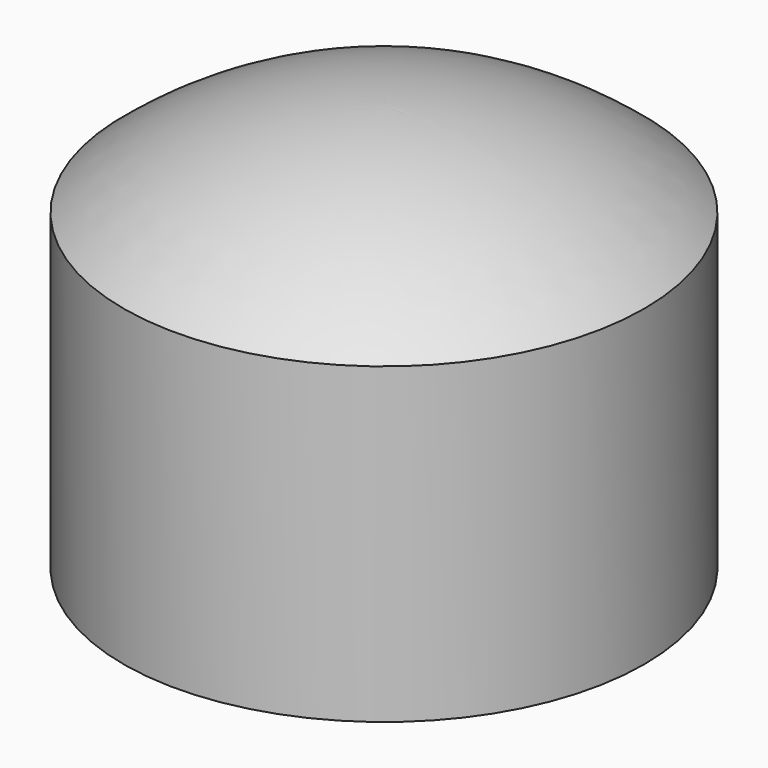
from build123d import *

# Parameters (mm, degrees)
F0_W = 4.699
F0_H = 41.91
F2_R = 2.54


with BuildPart() as f1:
    # F0 (on Front) → F1 (revolve)
    with BuildSketch(Plane.XZ):
        with BuildLine():
            ThreePointArc((0, 51.713774), (15.857888, 49.201307), (30.1625, 41.91))
            Line((30.1625, 41.91), (34.8615, 41.91))
            ThreePointArc((34.8615, 41.91), (18.551376, 51.336118), (0, 54.61))
            Line((0, 54.61), (0, 51.713774))
        make_face()
        with Locations((32.512, 20.955)):
            Rectangle(F0_W, F0_H)
    revolve(axis=Axis((0, 0, 18.078348), (0, 0, -1)))

    # F2
    f2_edges = [f1.edges().sort_by_distance(p)[0] for p in [
        (-30.1625, 0, 0),
    ]]
    fillet(f2_edges, radius=F2_R)


solid = f1.part
